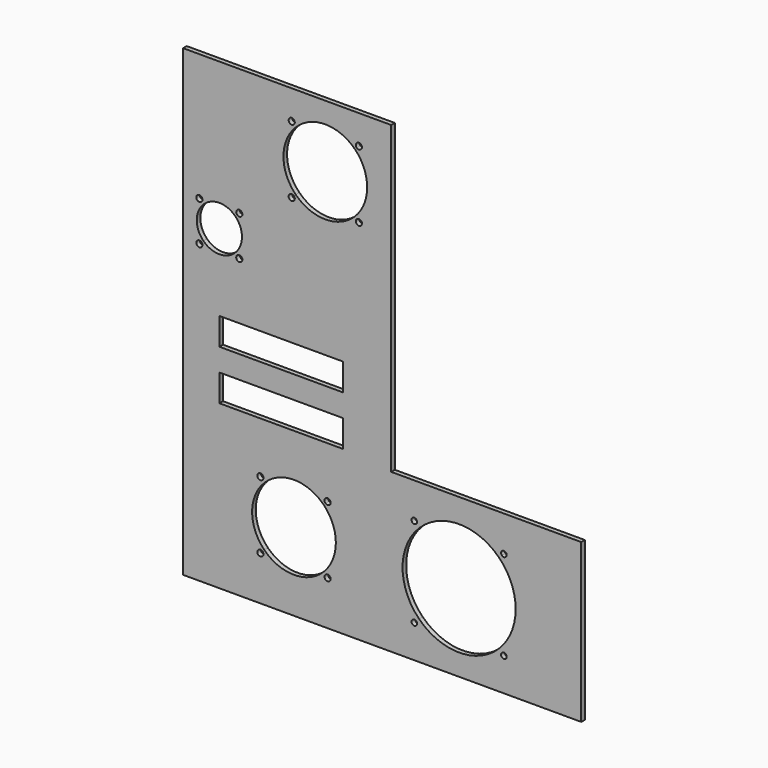
from build123d import *

# Parameters (mm, degrees)
F1_DEPTH = 3.175
F2_W     = 86.641395
F2_H     = 19.05
F3_DEPTH = 25.4


with BuildPart() as f1:
    # F0 (on Front) → F1 (new body)
    with BuildSketch(Plane.XZ):
        Polygon((146.05, 325.4375), (0, 325.4375), (0, 0), (279.4, 0), (279.4, 111.125), (146.05, 111.125), align=None)
    extrude(amount=F1_DEPTH)

    # F2 (on face) → F3 (cut)
    with BuildSketch(Plane.XZ.offset(3.175)):
        with BuildLine():
            ThreePointArc((221.7383, 26.608702), (230.341469, 39.484254), (233.3625, 54.672003))
            ThreePointArc((233.3625, 54.672003), (230.341469, 69.859752), (221.7383, 82.735303))
            Line((221.7383, 82.735303), (193.675, 54.672003))
            Line((193.675, 54.672003), (221.7383, 26.608702))
        make_face()
        with BuildLine():
            ThreePointArc((227.061696, 23.241106), (225.854349, 25.04803), (223.722937, 24.624066))
            ThreePointArc((223.722937, 24.624066), (224.357444, 21.434183), (227.061696, 23.241106))
        make_face()
        with BuildLine():
            ThreePointArc((164.199904, 23.241106), (164.051027, 23.989559), (163.627063, 24.624066))
            ThreePointArc((163.627063, 24.624066), (160.43718, 22.492654), (164.199904, 23.241106))
        make_face()
        with BuildLine():
            ThreePointArc((164.199904, 86.102899), (160.43718, 86.851352), (163.627063, 84.71994))
            ThreePointArc((163.627063, 84.71994), (164.051027, 85.354447), (164.199904, 86.102899))
        make_face()
        with BuildLine():
            ThreePointArc((227.061696, 86.102899), (224.357444, 87.909823), (223.722937, 84.71994))
            ThreePointArc((223.722937, 84.71994), (225.854349, 84.295976), (227.061696, 86.102899))
        make_face()
        with BuildLine():
            Line((193.675, 54.672003), (221.7383, 82.735303))
            ThreePointArc((221.7383, 82.735303), (193.675, 94.359503), (165.6117, 82.735303))
            Line((165.6117, 82.735303), (193.675, 54.672003))
        make_face()
        with BuildLine():
            ThreePointArc((165.6117, 26.608702), (193.675, 14.984503), (221.7383, 26.608702))
            Line((221.7383, 26.608702), (193.675, 54.672003))
            Line((193.675, 54.672003), (165.6117, 26.608702))
        make_face()
        with BuildLine():
            Line((193.675, 54.672003), (165.6117, 82.735303))
            ThreePointArc((165.6117, 82.735303), (153.9875, 54.672003), (165.6117, 26.608702))
            Line((165.6117, 26.608702), (193.675, 54.672003))
        make_face()
        with BuildLine():
            ThreePointArc((36.62532, 211.02468), (40.066588, 216.174901), (41.275, 222.25))
            ThreePointArc((41.275, 222.25), (40.066588, 228.325099), (36.62532, 233.47532))
            Line((36.62532, 233.47532), (25.4, 222.25))
            Line((25.4, 222.25), (36.62532, 211.02468))
        make_face()
        with BuildLine():
            ThreePointArc((41.56185, 208.2408), (40.232983, 210.22959), (37.887046, 209.762954))
            ThreePointArc((37.887046, 209.762954), (38.585416, 206.252011), (41.56185, 208.2408))
        make_face()
        with BuildLine():
            ThreePointArc((13.54345, 208.2408), (13.37959, 209.064584), (12.912954, 209.762954))
            ThreePointArc((12.912954, 209.762954), (9.402011, 207.417017), (13.54345, 208.2408))
        make_face()
        with BuildLine():
            ThreePointArc((13.54345, 236.2592), (9.402011, 237.082983), (12.912954, 234.737046))
            ThreePointArc((12.912954, 234.737046), (13.37959, 235.435416), (13.54345, 236.2592))
        make_face()
        with BuildLine():
            ThreePointArc((41.56185, 236.2592), (38.585416, 238.247989), (37.887046, 234.737046))
            ThreePointArc((37.887046, 234.737046), (40.232983, 234.27041), (41.56185, 236.2592))
        make_face()
        with BuildLine():
            Line((25.4, 222.25), (36.62532, 233.47532))
            ThreePointArc((36.62532, 233.47532), (25.4, 238.125), (14.17468, 233.47532))
            Line((14.17468, 233.47532), (25.4, 222.25))
        make_face()
        with BuildLine():
            ThreePointArc((14.17468, 211.02468), (25.4, 206.375), (36.62532, 211.02468))
            Line((36.62532, 211.02468), (25.4, 222.25))
            Line((25.4, 222.25), (14.17468, 211.02468))
        make_face()
        with BuildLine():
            Line((25.4, 222.25), (14.17468, 233.47532))
            ThreePointArc((14.17468, 233.47532), (9.525, 222.25), (14.17468, 211.02468))
            Line((14.17468, 211.02468), (25.4, 222.25))
        make_face()
        with BuildLine():
            ThreePointArc((120.54389, 260.696076), (126.911611, 270.226044), (129.147658, 281.467408))
            ThreePointArc((129.147658, 281.467408), (126.911611, 292.708772), (120.54389, 302.23874))
            Line((120.54389, 302.23874), (99.772558, 281.467408))
            Line((99.772558, 281.467408), (120.54389, 260.696076))
        make_face()
        with BuildLine():
            ThreePointArc((125.49838, 257.894236), (124.169513, 259.883025), (121.823577, 259.416389))
            ThreePointArc((121.823577, 259.416389), (122.521946, 255.905446), (125.49838, 257.894236))
        make_face()
        with BuildLine():
            ThreePointArc((78.352035, 257.894236), (78.188175, 258.718019), (77.721539, 259.416389))
            ThreePointArc((77.721539, 259.416389), (74.210596, 257.070452), (78.352035, 257.894236))
        make_face()
        with BuildLine():
            ThreePointArc((78.352035, 305.04058), (74.210596, 305.864364), (77.721539, 303.518427))
            ThreePointArc((77.721539, 303.518427), (78.188175, 304.216797), (78.352035, 305.04058))
        make_face()
        with BuildLine():
            ThreePointArc((125.49838, 305.04058), (122.521946, 307.02937), (121.823577, 303.518427))
            ThreePointArc((121.823577, 303.518427), (124.169513, 303.051791), (125.49838, 305.04058))
        make_face()
        with BuildLine():
            Line((99.772558, 281.467408), (120.54389, 302.23874))
            ThreePointArc((120.54389, 302.23874), (99.772558, 310.842508), (79.001225, 302.23874))
            Line((79.001225, 302.23874), (99.772558, 281.467408))
        make_face()
        with BuildLine():
            ThreePointArc((79.001225, 260.696076), (99.772558, 252.092308), (120.54389, 260.696076))
            Line((120.54389, 260.696076), (99.772558, 281.467408))
            Line((99.772558, 281.467408), (79.001225, 260.696076))
        make_face()
        with BuildLine():
            Line((99.772558, 281.467408), (79.001225, 302.23874))
            ThreePointArc((79.001225, 302.23874), (70.397458, 281.467408), (79.001225, 260.696076))
            Line((79.001225, 260.696076), (99.772558, 281.467408))
        make_face()
        with Locations((68.720697, 158.75)):
            Rectangle(F2_W, F2_H)
        with Locations((68.720697, 123.825)):
            Rectangle(F2_W, F2_H)
        with BuildLine():
            ThreePointArc((98.559112, 33.90067), (104.926833, 43.430639), (107.162879, 54.672003))
            ThreePointArc((107.162879, 54.672003), (104.926833, 65.913367), (98.559112, 75.443335))
            Line((98.559112, 75.443335), (77.787779, 54.672003))
            Line((77.787779, 54.672003), (98.559112, 33.90067))
        make_face()
        with BuildLine():
            ThreePointArc((103.513602, 31.098831), (102.184735, 33.08762), (99.838798, 32.620984))
            ThreePointArc((99.838798, 32.620984), (100.537168, 29.110041), (103.513602, 31.098831))
        make_face()
        with BuildLine():
            ThreePointArc((56.367257, 31.098831), (56.203396, 31.922614), (55.73676, 32.620984))
            ThreePointArc((55.73676, 32.620984), (52.225818, 30.275047), (56.367257, 31.098831))
        make_face()
        with BuildLine():
            ThreePointArc((56.367257, 78.245175), (52.225818, 79.068959), (55.73676, 76.723022))
            ThreePointArc((55.73676, 76.723022), (56.203396, 77.421392), (56.367257, 78.245175))
        make_face()
        with BuildLine():
            ThreePointArc((103.513602, 78.245175), (100.537168, 80.233964), (99.838798, 76.723022))
            ThreePointArc((99.838798, 76.723022), (102.184735, 76.256386), (103.513602, 78.245175))
        make_face()
        with BuildLine():
            Line((77.787779, 54.672003), (98.559112, 75.443335))
            ThreePointArc((98.559112, 75.443335), (77.787779, 84.047103), (57.016447, 75.443335))
            Line((57.016447, 75.443335), (77.787779, 54.672003))
        make_face()
        with BuildLine():
            ThreePointArc((57.016447, 33.90067), (77.787779, 25.296903), (98.559112, 33.90067))
            Line((98.559112, 33.90067), (77.787779, 54.672003))
            Line((77.787779, 54.672003), (57.016447, 33.90067))
        make_face()
        with BuildLine():
            Line((77.787779, 54.672003), (57.016447, 75.443335))
            ThreePointArc((57.016447, 75.443335), (48.412679, 54.672003), (57.016447, 33.90067))
            Line((57.016447, 33.90067), (77.787779, 54.672003))
        make_face()
    extrude(amount=-F3_DEPTH, mode=Mode.SUBTRACT)


solid = f1.part
